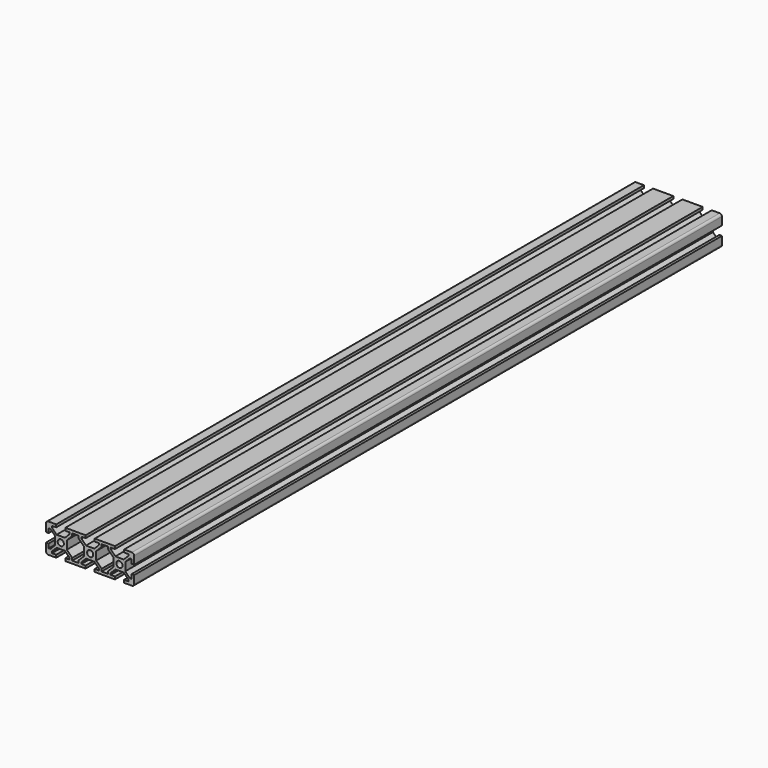
from build123d import *

# Parameters (mm, degrees)
SKETCH_R  = 2.1
PAD_DEPTH = 250
FILLET_R  = 1.5


with BuildPart() as part:
    # Sketch → Pad (new body, symmetric)
    with BuildSketch(Plane.XZ):
        Polygon((-10, 10), (-3.1, 10), (-3.1, 8.2), (-6, 8.2), (-6, 7.06066), (-2.83934, 3.9), (2.83934, 3.9), (6, 7.06066), (6, 8.2), (3.1, 8.2), (3.1, 10), (16.9, 10), (16.9, 8.2), (14, 8.2), (14, 7.06066), (17.16066, 3.9), (22.83934, 3.9), (26, 7.06066), (26, 8.2), (23.1, 8.2), (23.1, 10), (36.9, 10), (36.9, 8.2), (34, 8.2), (34, 7.06066), (37.16066, 3.9), (42.83934, 3.9), (46, 7.06066), (46, 8.2), (43.1, 8.2), (43.1, 10), (50, 10), (50, 3.1), (48.2, 3.1), (48.2, 6), (47.06066, 6), (43.9, 2.83934), (43.9, -2.83934), (47.06066, -6), (48.2, -6), (48.2, -3.1), (50, -3.1), (50, -10), (43.1, -10), (43.1, -8.2), (46, -8.2), (46, -7.06066), (42.83934, -3.9), (37.16066, -3.9), (34, -7.06066), (34, -8.2), (36.9, -8.2), (36.9, -10), (23.1, -10), (23.1, -8.2), (26, -8.2), (26, -7.06066), (22.83934, -3.9), (17.16066, -3.9), (14, -7.06066), (14, -8.2), (16.9, -8.2), (16.9, -10), (3.1, -10), (3.1, -8.2), (6, -8.2), (6, -7.06066), (2.83934, -3.9), (-2.83934, -3.9), (-6, -7.06066), (-6, -8.2), (-3.1, -8.2), (-3.1, -10), (-10, -10), (-10, -3.1), (-8.2, -3.1), (-8.2, -6), (-7.06066, -6), (-3.9, -2.83934), (-3.9, 2.83934), (-7.06066, 6), (-8.2, 6), (-8.2, 3.1), (-10, 3.1), align=None)
        Circle(SKETCH_R, mode=Mode.SUBTRACT)
        with Locations((20, 0)):
            Circle(SKETCH_R, mode=Mode.SUBTRACT)
        with Locations((39.9, 0)):
            Circle(SKETCH_R, mode=Mode.SUBTRACT)
        Polygon((7.8, -6.53934), (4.1, -2.83934), (4.1, 2.83934), (7.8, 6.53934), (7.8, 8.2), (12.2, 8.2), (12.2, 6.53934), (15.9, 2.83934), (15.9, -2.83934), (12.2, -6.53934), (12.2, -8.2), (7.8, -8.2), align=None, mode=Mode.SUBTRACT)
        Polygon((27.8, 8.2), (27.8, 6.53934), (24.1, 2.83934), (24.1, -2.83934), (27.8, -6.53934), (27.8, -8.2), (32.2, -8.2), (32.2, -6.53934), (35.9, -2.83934), (35.9, 2.83934), (32.2, 6.53934), (32.2, 8.2), align=None, mode=Mode.SUBTRACT)
    extrude(amount=PAD_DEPTH, both=True)

    # Fillet
    fillet_edges = [part.edges().sort_by_distance(p)[0] for p in [
        (-10, 0, 10),
        (50, 0, 10),
        (-10, 0, -10),
        (50, 0, -10),
    ]]
    fillet(fillet_edges, radius=FILLET_R)


with BuildPart() as part_1:
    # Body placement: moved
    add(part.part.moved(Location((-30, 0, 0))))


solid = part_1.part
